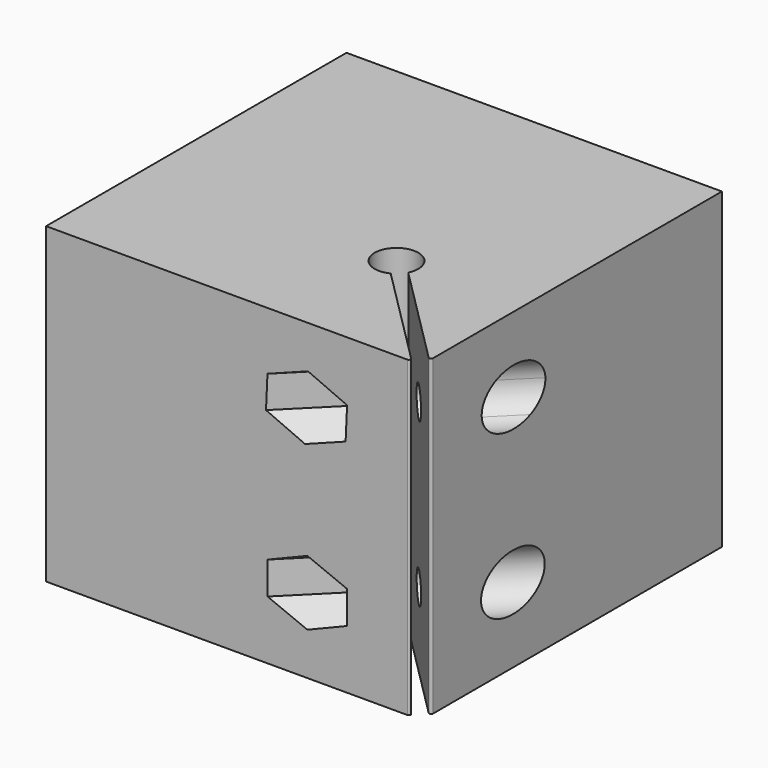
from build123d import *

# Parameters (mm, degrees)
F1_DEPTH  = 50
F3_D      = 5
F3_DEPTH  = 41.3274068712
F4_D      = 5
F2_R      = 2.5
F5_DEPTH  = 25
F7_DEPTH  = 4
F8_D      = 5
F8_DEPTH  = 43.5274068712
F9_R      = 2.5
F10_DEPTH = 25
F11_DEPTH = 4
F12_D     = 9
F2_R_2    = 4.5
F13_DEPTH = 4
F14_DEPTH = 4


with BuildPart() as f1:
    # F0 (on Top) → F1 (new body)
    with BuildSketch(Plane.XY):
        with BuildLine():
            Line((-1.7862601951, 60.9325501156), (-61.7862601951, 60.9325501156))
            Line((-61.7862601951, 60.9325501156), (-61.7862601951, 0.9325501156))
            Line((-61.7862601951, 0.9325501156), (-4.0661591824, 0.9325501156))
            ThreePointArc((-4.0661591824, 0.9325501156), (-3.7889953226, 1.1177450859), (-3.854027148, 1.4446821499))
            Line((-3.854027148, 1.4446821499), (-20.1718328565, 17.7624878584))
            ThreePointArc((-20.1718328565, 17.7624878584), (-20.2255831505, 17.7903284125), (-20.2855480525, 17.7820579171))
            ThreePointArc((-20.2855480525, 17.7820579171), (-24.2538235709, 23.4001134914), (-18.6357679966, 19.431837973))
            ThreePointArc((-18.6357679966, 19.431837973), (-18.644038492, 19.371873071), (-18.6161979379, 19.318122777))
            Line((-18.6161979379, 19.318122777), (-2.2983922294, 3.0003170685))
            ThreePointArc((-2.2983922294, 3.0003170685), (-1.9714551654, 2.9352852431), (-1.7862601951, 3.2124491029))
            Line((-1.7862601951, 3.2124491029), (-1.7862601951, 60.9325501156))
        make_face()
    extrude(amount=F1_DEPTH)

    # F3 (through all, one way)
    with BuildSketch(Plane(origin=(0.3509624196, 0.3509624196, 0), x_dir=(0.7071067812, -0.7071067812, 0), z_dir=(-0.7071067812, -0.7071067812, 0))):
        with Locations((-14.9178623246, 38)):
            Circle(F3_D / 2)
    extrude(amount=-F3_DEPTH, mode=Mode.SUBTRACT)

    # F4 (through all)
    with Locations(Plane(origin=(0.3509624196, 0.3509624196, 0), x_dir=(0.7071067812, -0.7071067812, 0), z_dir=(0.7071067812, 0.7071067812, 0))):
        with Locations((-14.9178623246, -38)):
            Hole(F4_D / 2)


with BuildPart() as f5:
    # F2 (on face) → F5 (new body)
    with BuildSketch(Plane(origin=(0.3509624196, 0.3509624196, 0), x_dir=(0.7071067812, -0.7071067812, 0), z_dir=(-0.7071067812, -0.7071067812, 0))):
        with BuildLine():
            ThreePointArc((-10.4200142309, 37.8608507059), (-10.4184003334, 37.9304170338), (-10.4178623246, 38))
            ThreePointArc((-10.4178623246, 38), (-10.9864224448, 40.1894703631), (-12.5484314228, 41.825676045))
            ThreePointArc((-12.5484314228, 41.825676045), (-14.778713123, 42.4978480966), (-17.0462797434, 41.9648252536))
            ThreePointArc((-17.0462797434, 41.9648252536), (-18.7435384475, 40.3694307761), (-19.4157104183, 38.1391492941))
            ThreePointArc((-19.4157104183, 38.1391492941), (-18.8826876493, 35.8715827137), (-17.2872930734, 34.1743238602))
            ThreePointArc((-17.2872930734, 34.1743238602), (-15.0570115589, 33.5021519045), (-12.789445122, 34.0351746304))
            ThreePointArc((-12.789445122, 34.0351746304), (-11.0921862663, 35.6305691196), (-10.4200142309, 37.8608507059))
        make_face()
        with Locations((-14.9178623246, 38)):
            Circle(F2_R, mode=Mode.SUBTRACT)
    extrude(amount=-F5_DEPTH)


with BuildPart() as f1_1:
    add(f1.part)

    # F6: cut F5
    add(f5.part, mode=Mode.SUBTRACT)

    # F2 (on face) → F7 (join)
    with BuildSketch(Plane(origin=(0.3509624196, 0.3509624196, 0), x_dir=(0.7071067812, -0.7071067812, 0), z_dir=(-0.7071067812, -0.7071067812, 0))):
        with BuildLine():
            ThreePointArc((-10.4200142309, 37.8608507059), (-10.4184003334, 37.9304170338), (-10.4178623246, 38))
            ThreePointArc((-10.4178623246, 38), (-10.9864224448, 40.1894703631), (-12.5484314228, 41.825676045))
            ThreePointArc((-12.5484314228, 41.825676045), (-14.778713123, 42.4978480966), (-17.0462797434, 41.9648252536))
            ThreePointArc((-17.0462797434, 41.9648252536), (-18.7435384475, 40.3694307761), (-19.4157104183, 38.1391492941))
            ThreePointArc((-19.4157104183, 38.1391492941), (-18.8826876493, 35.8715827137), (-17.2872930734, 34.1743238602))
            ThreePointArc((-17.2872930734, 34.1743238602), (-15.0570115589, 33.5021519045), (-12.789445122, 34.0351746304))
            ThreePointArc((-12.789445122, 34.0351746304), (-11.0921862663, 35.6305691196), (-10.4200142309, 37.8608507059))
        make_face()
        with Locations((-14.9178623246, 38)):
            Circle(F2_R, mode=Mode.SUBTRACT)
    extrude(amount=-F7_DEPTH)

    # F8 (through all, one way)
    with BuildSketch(Plane(origin=(0.3509624196, 0.3509624196, 0), x_dir=(0.7071067812, -0.7071067812, 0), z_dir=(0.7071067812, 0.7071067812, 0))):
        with Locations((-14.8236154172, -12)):
            Circle(F8_D / 2)
    extrude(amount=-F8_DEPTH, mode=Mode.SUBTRACT)

    # F9 (on face) → F10 (cut)
    with BuildSketch(Plane(origin=(-1.2046724991, -1.2046724991, 0), x_dir=(-0.7071067812, 0.7071067812, 0), z_dir=(0.7071067812, 0.7071067812, 0))):
        Polygon((14.7514793048, 43.1934879119), (10.3369783488, 40.452652034), (10.5033613687, 35.2591641221), (15.0842453445, 32.8065120881), (19.4987463005, 35.547347966), (19.3323632806, 40.7408358779), align=None)
        with Locations((14.9178623246, 38)):
            Circle(F9_R, mode=Mode.SUBTRACT)
        Polygon((19.3236154172, 9.4019237886), (19.3236154172, 14.5980762114), (14.8236154172, 17.1961524227), (10.3236154172, 14.5980762114), (10.3236154172, 9.4019237886), (14.8236154172, 6.8038475773), align=None)
    extrude(amount=-F10_DEPTH, mode=Mode.SUBTRACT)

    # F9 (on face) → F11 (join)
    with BuildSketch(Plane(origin=(-1.2046724991, -1.2046724991, 0), x_dir=(-0.7071067812, 0.7071067812, 0), z_dir=(0.7071067812, 0.7071067812, 0))):
        Polygon((14.7514793048, 43.1934879119), (10.3369783488, 40.452652034), (10.5033613687, 35.2591641221), (15.0842453445, 32.8065120881), (19.4987463005, 35.547347966), (19.3323632806, 40.7408358779), align=None)
        with Locations((14.9178623246, 38)):
            Circle(F9_R, mode=Mode.SUBTRACT)
    extrude(amount=-F11_DEPTH)

    # F12 (through all)
    with Locations(Plane(origin=(0.3509624196, 0.3509624196, 0), x_dir=(0.7071067812, -0.7071067812, 0), z_dir=(-0.7071067812, -0.7071067812, 0))):
        with Locations((-14.8236154172, 12)):
            Hole(F12_D / 2)

    # F2 (on face) → F13 (join)
    with BuildSketch(Plane(origin=(0.3509624196, 0.3509624196, 0), x_dir=(0.7071067812, -0.7071067812, 0), z_dir=(-0.7071067812, -0.7071067812, 0))):
        with Locations((-14.8236154172, 12)):
            Circle(F2_R_2)
        with Locations((-14.8236154172, 12)):
            Circle(F2_R, mode=Mode.SUBTRACT)
    extrude(amount=-F13_DEPTH)

    # F9 (on face) → F14 (join)
    with BuildSketch(Plane(origin=(-1.2046724991, -1.2046724991, 0), x_dir=(-0.7071067812, 0.7071067812, 0), z_dir=(0.7071067812, 0.7071067812, 0))):
        Polygon((19.3236154172, 9.4019237886), (19.3236154172, 14.5980762114), (14.8236154172, 17.1961524227), (10.3236154172, 14.5980762114), (10.3236154172, 9.4019237886), (14.8236154172, 6.8038475773), align=None)
        with Locations((14.8236154172, 12)):
            Circle(F9_R, mode=Mode.SUBTRACT)
    extrude(amount=-F14_DEPTH)


solid = f1_1.part
